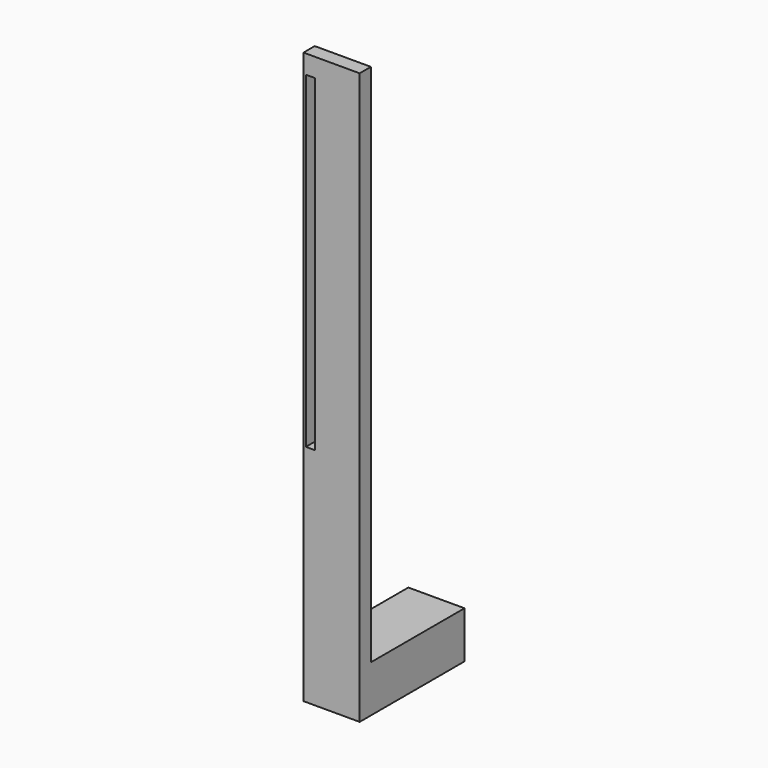
from build123d import *

# Parameters (mm, degrees)
F0_W     = 3
F0_H     = 122
F1_DEPTH = 12
F2_W     = 12
F2_H     = 10
F3_DEPTH = 25
F5_DEPTH = 3.001


with BuildPart() as f1:
    # F0 (on Right) → F1 (new body)
    with BuildSketch(Plane.YZ):
        with Locations((-1.5, 61)):
            Rectangle(F0_W, F0_H)
    extrude(amount=F1_DEPTH)

    # F2 (on face) → F3 (join)
    with BuildSketch(Plane(origin=(0, 0, 0), x_dir=(-1, 0, 0), z_dir=(0, 1, 0))):
        with Locations((-6, 5)):
            Rectangle(F2_W, F2_H)
    extrude(amount=F3_DEPTH)

    # F4 (on face) → F5 (cut, through all)
    with BuildSketch(Plane(origin=(0, 0, 0), x_dir=(-1, 0, 0), z_dir=(0, 1, 0))):
        Polygon((-0.5, 118), (-1.5, 118), (-2.5, 118), (-2.5, 48), (-1.5, 48), (-0.5, 48), align=None)
    extrude(amount=-F5_DEPTH, mode=Mode.SUBTRACT)


solid = f1.part
